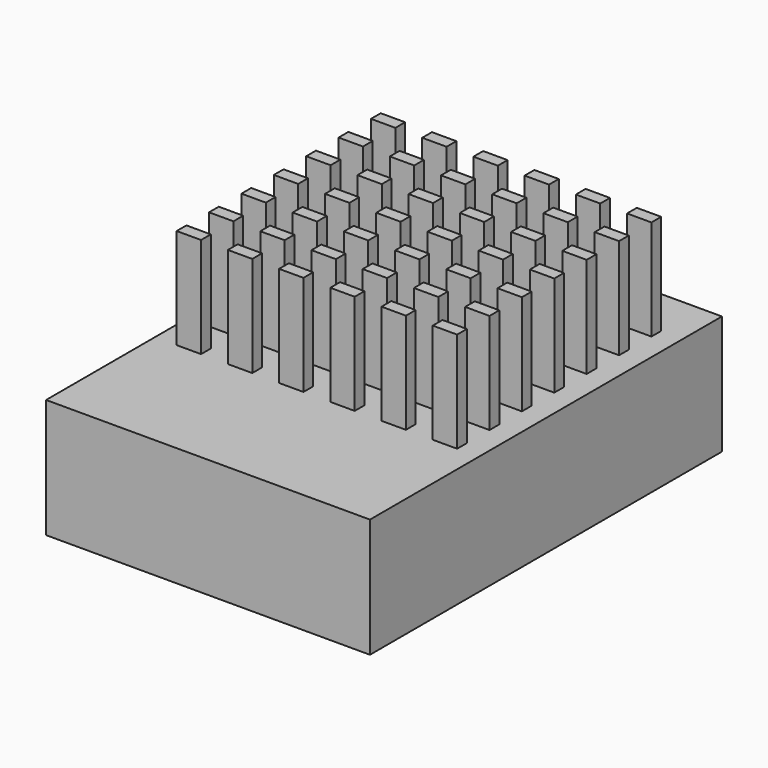
from build123d import *

# Parameters (mm, degrees)
F0_W     = 33.2
F0_H     = 45.1
F1_DEPTH = 12.2
F2_W     = 2.5
F2_H     = 1.25
F3_DEPTH = 10.3


with BuildPart() as f1:
    # F0 (on Top) → F1 (new body)
    with BuildSketch(Plane.XY):
        Rectangle(F0_W, F0_H)
    extrude(amount=F1_DEPTH)

    # F2 (on face) → F3 (join)
    with BuildSketch(Plane.XY.offset(12.2)):
        with Locations((-13.125, 16.925)):
            Rectangle(F2_W, F2_H)
        with Locations((-13.125, 12.775)):
            Rectangle(F2_W, F2_H)
        with Locations((-13.125, 8.625)):
            Rectangle(F2_W, F2_H)
        with Locations((-13.125, 4.475)):
            Rectangle(F2_W, F2_H)
        with Locations((-13.125, 0.325)):
            Rectangle(F2_W, F2_H)
        with Locations((-13.125, -3.825)):
            Rectangle(F2_W, F2_H)
        with Locations((-13.125, -7.975)):
            Rectangle(F2_W, F2_H)
        with Locations((-7.875, 16.925)):
            Rectangle(F2_W, F2_H)
        with Locations((-7.875, 12.775)):
            Rectangle(F2_W, F2_H)
        with Locations((-7.875, 8.625)):
            Rectangle(F2_W, F2_H)
        with Locations((-7.875, 4.475)):
            Rectangle(F2_W, F2_H)
        with Locations((-7.875, 0.325)):
            Rectangle(F2_W, F2_H)
        with Locations((-7.875, -3.825)):
            Rectangle(F2_W, F2_H)
        with Locations((-7.875, -7.975)):
            Rectangle(F2_W, F2_H)
        with Locations((-2.625, 16.925)):
            Rectangle(F2_W, F2_H)
        with Locations((-2.625, 12.775)):
            Rectangle(F2_W, F2_H)
        with Locations((-2.625, 8.625)):
            Rectangle(F2_W, F2_H)
        with Locations((-2.625, 4.475)):
            Rectangle(F2_W, F2_H)
        with Locations((-2.625, 0.325)):
            Rectangle(F2_W, F2_H)
        with Locations((-2.625, -3.825)):
            Rectangle(F2_W, F2_H)
        with Locations((-2.625, -7.975)):
            Rectangle(F2_W, F2_H)
        with Locations((2.625, 16.925)):
            Rectangle(F2_W, F2_H)
        with Locations((2.625, 12.775)):
            Rectangle(F2_W, F2_H)
        with Locations((2.625, 8.625)):
            Rectangle(F2_W, F2_H)
        with Locations((2.625, 4.475)):
            Rectangle(F2_W, F2_H)
        with Locations((2.625, 0.325)):
            Rectangle(F2_W, F2_H)
        with Locations((2.625, -3.825)):
            Rectangle(F2_W, F2_H)
        with Locations((2.625, -7.975)):
            Rectangle(F2_W, F2_H)
        with Locations((7.875, 16.925)):
            Rectangle(F2_W, F2_H)
        with Locations((7.875, 12.775)):
            Rectangle(F2_W, F2_H)
        with Locations((7.875, 8.625)):
            Rectangle(F2_W, F2_H)
        with Locations((7.875, 4.475)):
            Rectangle(F2_W, F2_H)
        with Locations((7.875, 0.325)):
            Rectangle(F2_W, F2_H)
        with Locations((7.875, -3.825)):
            Rectangle(F2_W, F2_H)
        with Locations((7.875, -7.975)):
            Rectangle(F2_W, F2_H)
        with Locations((13.125, 16.925)):
            Rectangle(F2_W, F2_H)
        with Locations((13.125, 12.775)):
            Rectangle(F2_W, F2_H)
        with Locations((13.125, 8.625)):
            Rectangle(F2_W, F2_H)
        with Locations((13.125, 4.475)):
            Rectangle(F2_W, F2_H)
        with Locations((13.125, 0.325)):
            Rectangle(F2_W, F2_H)
        with Locations((13.125, -3.825)):
            Rectangle(F2_W, F2_H)
        with Locations((13.125, -7.975)):
            Rectangle(F2_W, F2_H)
    extrude(amount=F3_DEPTH)


solid = f1.part
